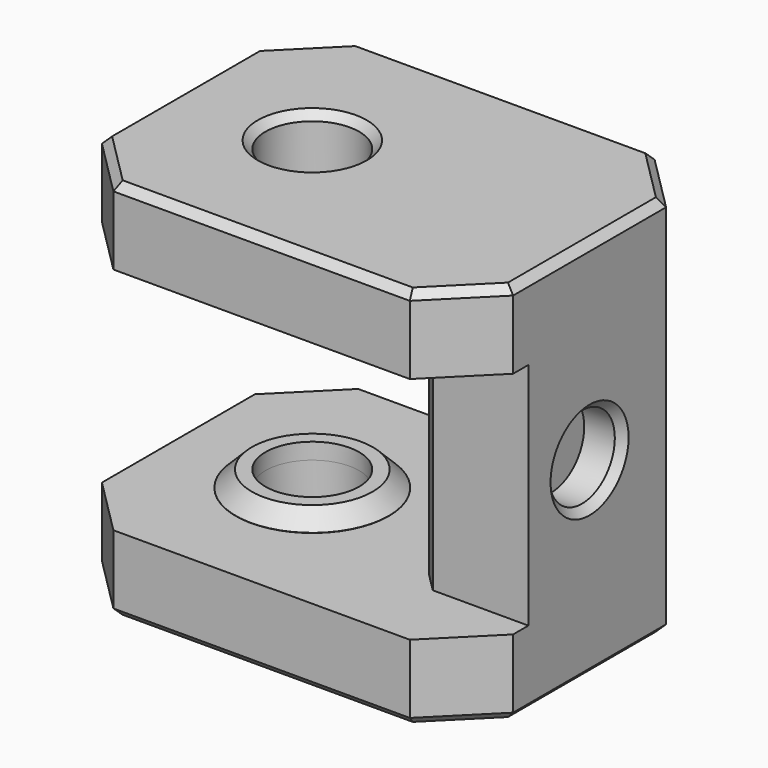
from build123d import *

# Parameters (mm, degrees)
SKETCH001_W     = 21.5
SKETCH001_H     = 16
PAD_DEPTH       = 20
POCKET_DEPTH    = 6
SKETCH003_R     = 2.45
POCKET001_DEPTH = 20.001
SKETCH004_R     = 4
SKETCH004_R_2   = 2.45
PAD001_DEPTH    = 0.85
SKETCH005_R     = 4
SKETCH005_R_2   = 2.45
PAD002_DEPTH    = 0.85
CHAMFER_SIZE    = 0.84
CHAMFER001_SIZE = 3
CHAMFER002_SIZE = 3
CHAMFER003_SIZE = 0.4
SKETCH010_W     = 10
SKETCH010_H     = 4
POCKET004_DEPTH = 6
SKETCH021_R     = 2.15
POCKET012_DEPTH = 2
CHAMFER010_SIZE = 0.4
CHAMFER011_SIZE = 1


with BuildPart() as part:
    # Sketch001 → Pad (new body)
    with BuildSketch(Plane.XY):
        with Locations((3.75, 0)):
            Rectangle(SKETCH001_W, SKETCH001_H)
    extrude(amount=PAD_DEPTH)

    # Sketch002 (on DatumPlane) → Pocket (cut, symmetric)
    with BuildSketch(Plane.XY.offset(10)):
        Polygon((-7, 8), (5.5, 8), (8.5, 4), (8.5, -4), (5.5, -8), (-7, -8), align=None)
    extrude(amount=POCKET_DEPTH, both=True, mode=Mode.SUBTRACT)

    # Sketch003 (on Face4 of Pocket) → Pocket001 (cut, through all)
    with BuildSketch(Plane.XY.offset(20)):
        Circle(SKETCH003_R)
    extrude(amount=-POCKET001_DEPTH, mode=Mode.SUBTRACT)

    # Sketch004 (on Face8 of Pocket001) → Pad001 (join)
    with BuildSketch(Plane.XY.offset(4)):
        Circle(SKETCH004_R)
        Circle(SKETCH004_R_2, mode=Mode.SUBTRACT)
    extrude(amount=PAD001_DEPTH)

    # Sketch005 (on Face6 of Pad001) → Pad002 (join)
    with BuildSketch(Plane(origin=(0, 0, 16), x_dir=(1, 0, 0), z_dir=(0, 0, -1))):
        Circle(SKETCH005_R)
        Circle(SKETCH005_R_2, mode=Mode.SUBTRACT)
    extrude(amount=PAD002_DEPTH)

    # Chamfer
    chamfer_edges = [part.edges().sort_by_distance(p)[0] for p in [
        (-4, 0, 4.85),
        (-4, 0, 15.15),
    ]]
    chamfer(chamfer_edges, length=CHAMFER_SIZE)

    # Chamfer001
    chamfer001_edges = [part.edges().sort_by_distance(p)[0] for p in [
        (-7, 8, 2),
        (-7, -8, 2),
        (-7, 8, 18),
        (-7, -8, 18),
    ]]
    chamfer(chamfer001_edges, length=CHAMFER001_SIZE)

    # Chamfer002
    chamfer002_edges = [part.edges().sort_by_distance(p)[0] for p in [
        (14.5, -8, 10),
        (14.5, 8, 10),
    ]]
    chamfer(chamfer002_edges, length=CHAMFER002_SIZE)

    # Chamfer003
    chamfer003_edges = [part.edges().sort_by_distance(p)[0] for p in [
        (3.75, 8, 20),
        (13, 6.5, 20),
        (-5.5, 6.5, 20),
        (14.5, 0, 20),
        (-7, 0, 20),
        (13, -6.5, 20),
        (-5.5, -6.5, 20),
        (3.75, -8, 20),
        (-2.45, 0, 20),
        (3.75, 8, 0),
        (13, 6.5, 0),
        (-5.5, 6.5, 0),
        (14.5, 0, 0),
        (-7, 0, 0),
        (13, -6.5, 0),
        (-5.5, -6.5, 0),
        (3.75, -8, 0),
        (-2.45, 0, 0),
    ]]
    chamfer(chamfer003_edges, length=CHAMFER003_SIZE)

    # Sketch010 (on DatumPlane) → Pocket004 (cut, symmetric)
    with BuildSketch(Plane.XY.offset(10)):
        with Locations((9.5, -6)):
            Rectangle(SKETCH010_W, SKETCH010_H)
    extrude(amount=POCKET004_DEPTH, both=True, mode=Mode.SUBTRACT)

    # Sketch021 (on Face10 of Pocket004) → Pocket012 (cut)
    with BuildSketch(Plane.YZ.offset(14.5)):
        with Locations((0, 10)):
            Circle(SKETCH021_R)
    extrude(amount=-POCKET012_DEPTH, mode=Mode.SUBTRACT)

    # Chamfer010
    chamfer010_edges = [part.edges().sort_by_distance(p)[0] for p in [
        (14.5, -2.15, 10),
    ]]
    chamfer(chamfer010_edges, length=CHAMFER010_SIZE)

    # Chamfer011
    chamfer011_edges = [part.edges().sort_by_distance(p)[0] for p in [
        (8.5, -4, 10),
    ]]
    chamfer(chamfer011_edges, length=CHAMFER011_SIZE)


with BuildPart() as part_1:
    # Body001 placement: moved
    add(part.part.moved(Location((27.5, 19.5, 5))))


solid = part_1.part
